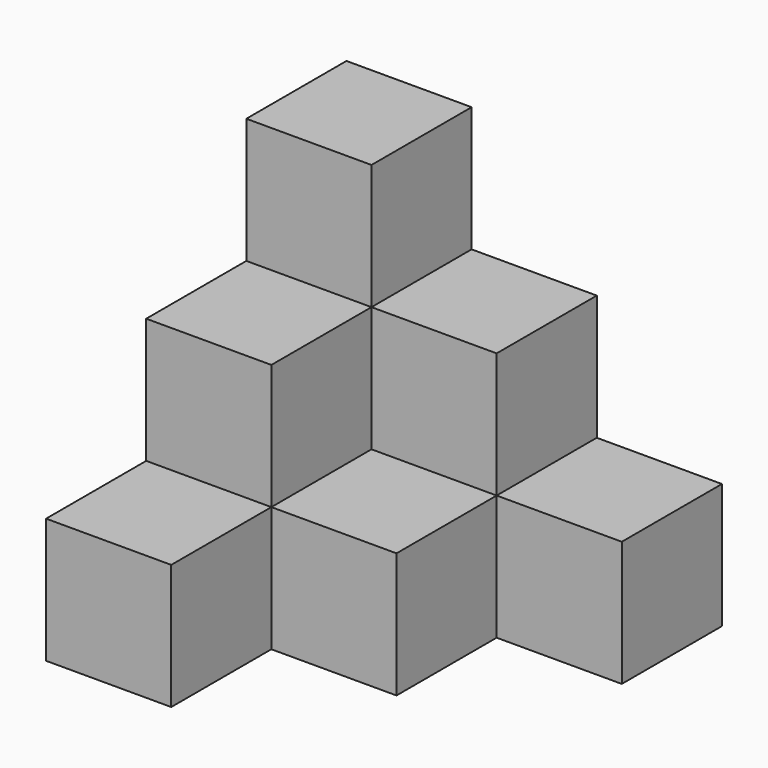
from build123d import *

# Parameters (mm, degrees)
BOX001_W     = 10
BOX001_H     = 10
BOX001_DEPTH = 30
BOX002_W     = 10
BOX002_H     = 10
BOX002_DEPTH = 20
BOX003_W     = 10
BOX003_H     = 10
BOX003_DEPTH = 10
BOX004_W     = 10
BOX004_H     = 10
BOX004_DEPTH = 10
BOX005_W     = 10
BOX005_H     = 10
BOX005_DEPTH = 10
BOX_W        = 10
BOX_H        = 10
BOX_DEPTH    = 20


with BuildPart() as obj1:
    # Box001 → Box001 (new body)
    with BuildSketch(Plane.XY):
        with Locations((5, 5)):
            Rectangle(BOX001_W, BOX001_H)
    extrude(amount=BOX001_DEPTH)


with BuildPart() as obj2:
    # Box002 → Box002 (new body)
    with BuildSketch(Plane(origin=(0, -10, 0), x_dir=(1, 0, 0), z_dir=(0, 0, 1))):
        with Locations((5, 5)):
            Rectangle(BOX002_W, BOX002_H)
    extrude(amount=BOX002_DEPTH)


with BuildPart() as obj3:
    # Box003 → Box003 (new body)
    with BuildSketch(Plane(origin=(0, -20, 0), x_dir=(1, 0, 0), z_dir=(0, 0, 1))):
        with Locations((5, 5)):
            Rectangle(BOX003_W, BOX003_H)
    extrude(amount=BOX003_DEPTH)


with BuildPart() as obj4:
    # Box004 → Box004 (new body)
    with BuildSketch(Plane(origin=(10, -10, 0), x_dir=(1, 0, 0), z_dir=(0, 0, 1))):
        with Locations((5, 5)):
            Rectangle(BOX004_W, BOX004_H)
    extrude(amount=BOX004_DEPTH)


with BuildPart() as obj5:
    # Box005 → Box005 (new body)
    with BuildSketch(Plane(origin=(20, 0, 0), x_dir=(1, 0, 0), z_dir=(0, 0, 1))):
        with Locations((5, 5)):
            Rectangle(BOX005_W, BOX005_H)
    extrude(amount=BOX005_DEPTH)


with BuildPart() as fusion001:
    # Box → Box (new body)
    with BuildSketch(Plane(origin=(10, 0, 0), x_dir=(1, 0, 0), z_dir=(0, 0, 1))):
        with Locations((5, 5)):
            Rectangle(BOX_W, BOX_H)
    extrude(amount=BOX_DEPTH)

    # Fusion: union obj1, obj2, obj3, obj4, obj5
    add(obj1.part)
    add(obj2.part)
    add(obj3.part)
    add(obj4.part)
    add(obj5.part)


solid = fusion001.part
